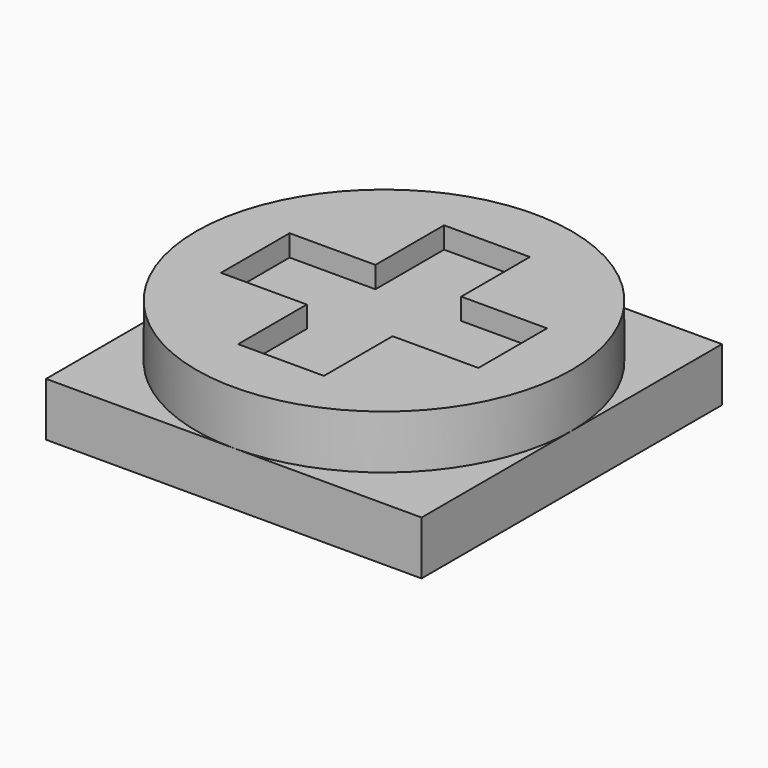
from build123d import *

# Parameters (mm, degrees)
BOX012_W        = 3.5
BOX012_H        = 3.5
BOX012_DEPTH    = 0.5
SKETCH003_R     = 1.75
PAD001_DEPTH    = 0.5
POCKET002_DEPTH = 0.2


with BuildPart() as part:
    # Box012 → Box012 (new body)
    with BuildSketch(Plane(origin=(11, 9, 1.5), x_dir=(1, 0, 0), z_dir=(0, 0, 1))):
        with Locations((1.75, 1.75)):
            Rectangle(BOX012_W, BOX012_H)
    extrude(amount=BOX012_DEPTH)

    # Sketch003 → Pad001 (new body)
    with BuildSketch(Plane(origin=(11, 9, 2), x_dir=(1, 0, 0), z_dir=(0, 0, 1))):
        with Locations((1.75, 1.75)):
            Circle(SKETCH003_R)
    extrude(amount=PAD001_DEPTH)

    # Sketch004 → Pocket002 (cut)
    with BuildSketch(Plane(origin=(11, 9, 2.5), x_dir=(1, 0, 0), z_dir=(0, 0, 1))):
        Polygon((2.15, 2.95), (1.35, 2.95), (1.35, 2.15), (0.55, 2.15), (0.55, 1.35), (1.35, 1.35), (1.35, 0.55), (2.15, 0.55), (2.15, 1.35), (2.95, 1.35), (2.95, 2.15), (2.15, 2.15), align=None)
    extrude(amount=-POCKET002_DEPTH, mode=Mode.SUBTRACT)


solid = part.part
